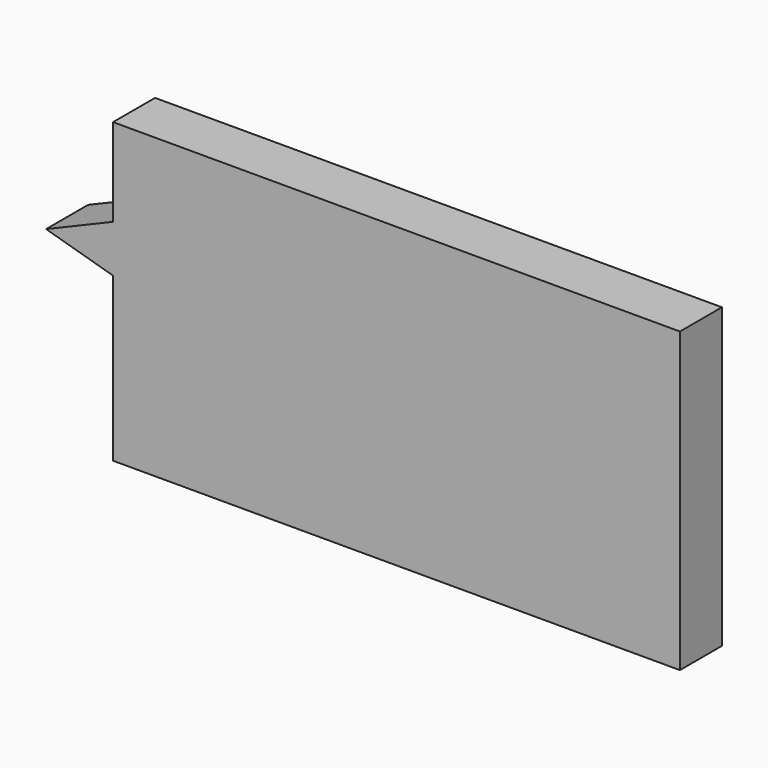
from build123d import *

# Parameters (mm, degrees)
F1_DEPTH = 25


with BuildPart() as f1:
    # F0 (on Front) → F1 (new body)
    with BuildSketch(Plane.XZ):
        Polygon((172.6244944355, 64.9972795546), (-97.3755055645, 64.9972795546), (-97.3755055645, 23.1745494774), (-35.3766158223, 49.2488481104), (-20.4198043793, -21.4561000466), (-97.3755055645, 0.6093069165), (-97.3755055645, -77.0027204454), (172.6244944355, -77.0027204454), align=None)
        Polygon((-35.3766158223, 49.2488481104), (-97.3755055645, 23.1745494774), (-97.3755055645, 0.6093069165), (-20.4198043793, -21.4561000466), align=None)
        Polygon((-97.3755055645, 0.6093069165), (-97.3755055645, 23.1745494774), (-129.2793372111, 9.757050594), align=None)
    extrude(amount=F1_DEPTH)


solid = f1.part
